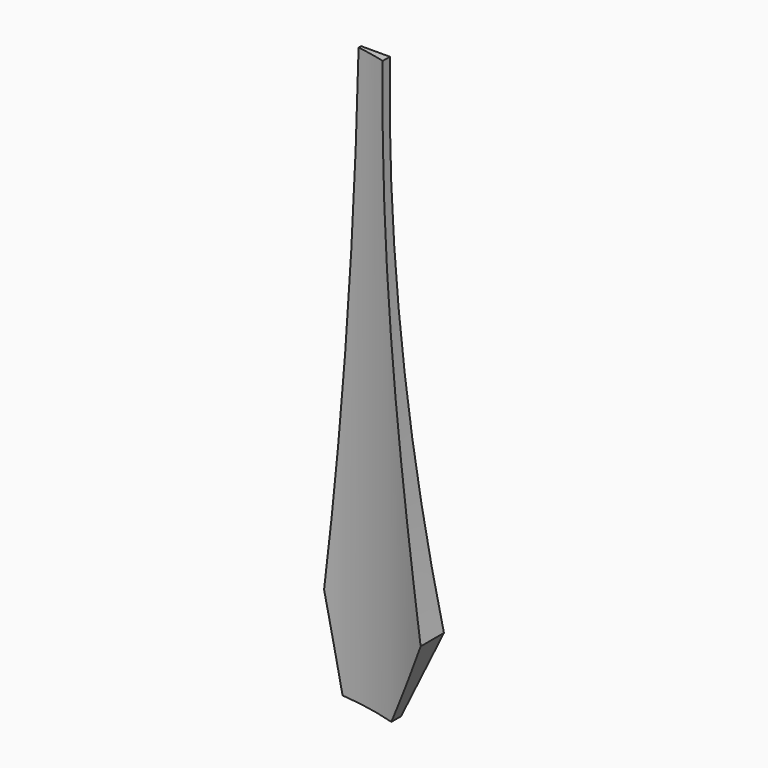
from build123d import *

# Parameters (mm, degrees)
F0_W     = 41.5798
F0_H     = 200
F1_DEPTH = 10
F4_DEPTH = 200.001
F6_DEPTH = 10.001


with BuildPart() as f1:
    # F0 (on Front) → F1 (new body)
    with BuildSketch(Plane.XZ):
        with Locations((-4.233334, 4.386183)):
            Rectangle(F0_W, F0_H)
    extrude(amount=F1_DEPTH)

    # F3 (on face) → F4 (cut, through all)
    with BuildSketch(Plane.XY.offset(104.386183)):
        with BuildLine():
            Line((-25.023234, -10), (16.351676, -10))
            ThreePointArc((16.351676, -10), (-3.766566, -2.720179), (-24.987783, 0))
            Line((-24.987783, 0), (-25.023234, 0))
            Line((-25.023234, 0), (-25.023234, -10))
        make_face()
    extrude(amount=-F4_DEPTH, mode=Mode.SUBTRACT)

    # F5 (on face) → F6 (cut, through all)
    with BuildSketch(Plane(origin=(0, 0, 0), x_dir=(-1, 0, 0), z_dir=(0, 1, 0))):
        with BuildLine():
            Line((24.987783, 104.386183), (12.161804, 104.386183))
            ThreePointArc((12.161804, 104.386183), (16.545975, 19.233115), (24.987783, -65.613817))
            Line((24.987783, -65.613817), (24.987783, 104.386183))
        make_face()
        with BuildLine():
            ThreePointArc((-16.556566, -65.338127), (-1.850307, 18.934315), (2.161804, 104.386183))
            Line((2.161804, 104.386183), (-16.556566, 104.386183))
            Line((-16.556566, 104.386183), (-16.556566, -65.338127))
        make_face()
        Polygon((-1.697552, -95.613817), (-16.556566, -65.338127), (-16.556566, -95.613817), align=None)
        Polygon((24.987783, -95.613817), (24.987783, -65.613817), (18.302448, -95.613817), align=None)
    extrude(amount=-F6_DEPTH, mode=Mode.SUBTRACT)


solid = f1.part
